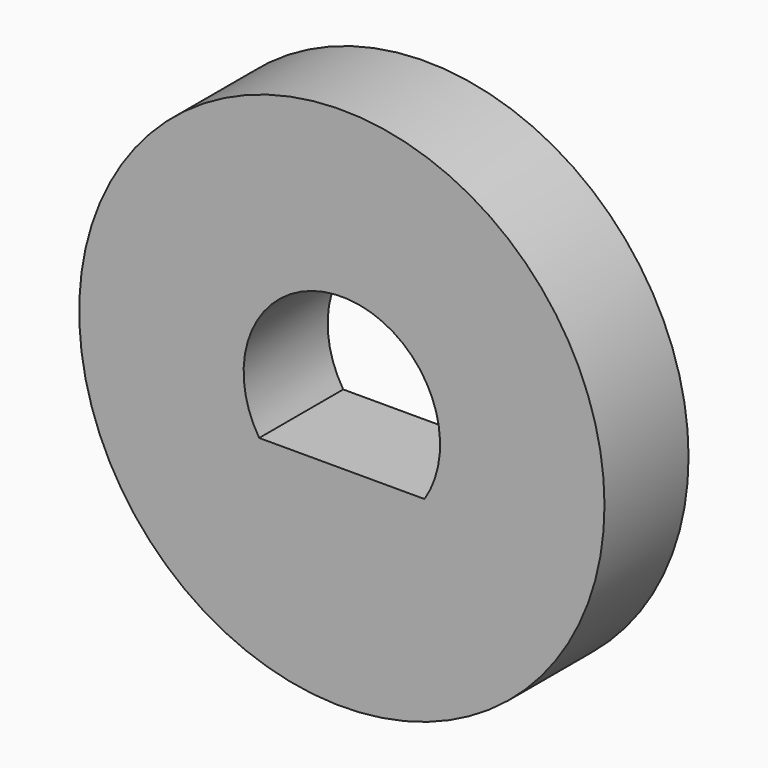
from build123d import *

# Parameters (mm, degrees)
F0_R     = 7.5
F1_DEPTH = 3


with BuildPart() as f1:
    # F0 (on Front) → F1 (new body)
    with BuildSketch(Plane.XZ):
        Circle(F0_R)
        with BuildLine():
            Line((2.360678, -1.515), (0, -1.515))
            Line((0, -1.515), (-2.360678, -1.515))
            ThreePointArc((-2.360678, -1.515), (0, 2.805), (2.360678, -1.515))
        make_face(mode=Mode.SUBTRACT)
    extrude(amount=F1_DEPTH)


solid = f1.part
